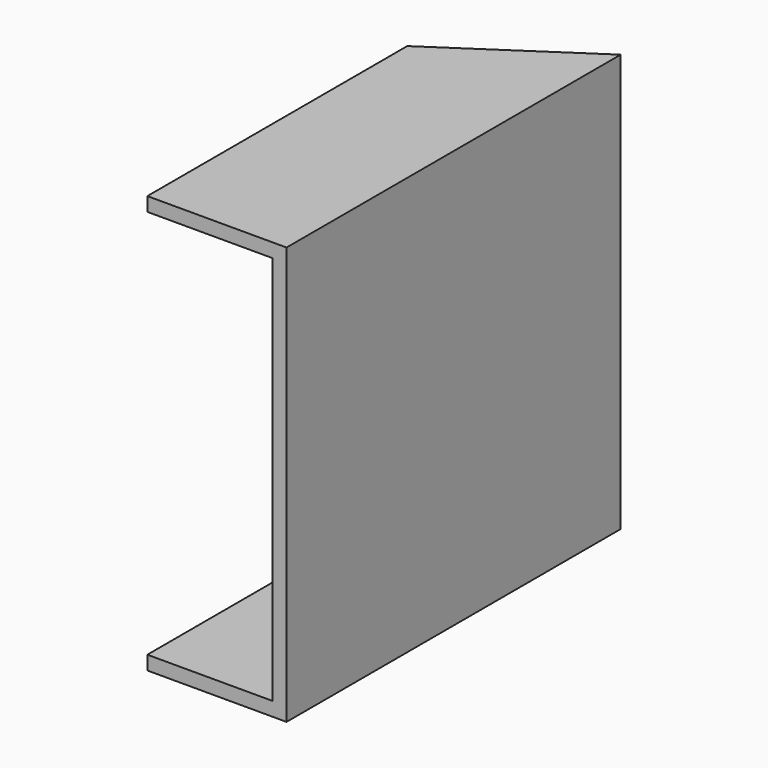
from build123d import *

# Parameters (mm, degrees)
F1_DEPTH = 180
F3_DEPTH = 180.001


with BuildPart() as f1:
    # F0 (on Front) → F1 (new body)
    with BuildSketch(Plane.XZ):
        Polygon((60, 180), (0, 180), (0, 174), (54, 174), (54, 6), (0, 6), (0, 0), (60, 0), align=None)
    extrude(amount=F1_DEPTH)

    # F2 (on face) → F3 (cut, through all)
    with BuildSketch(Plane.XY.offset(180)):
        Polygon((60, 0), (0, 0), (0, -40), align=None)
    extrude(amount=-F3_DEPTH, mode=Mode.SUBTRACT)


solid = f1.part
